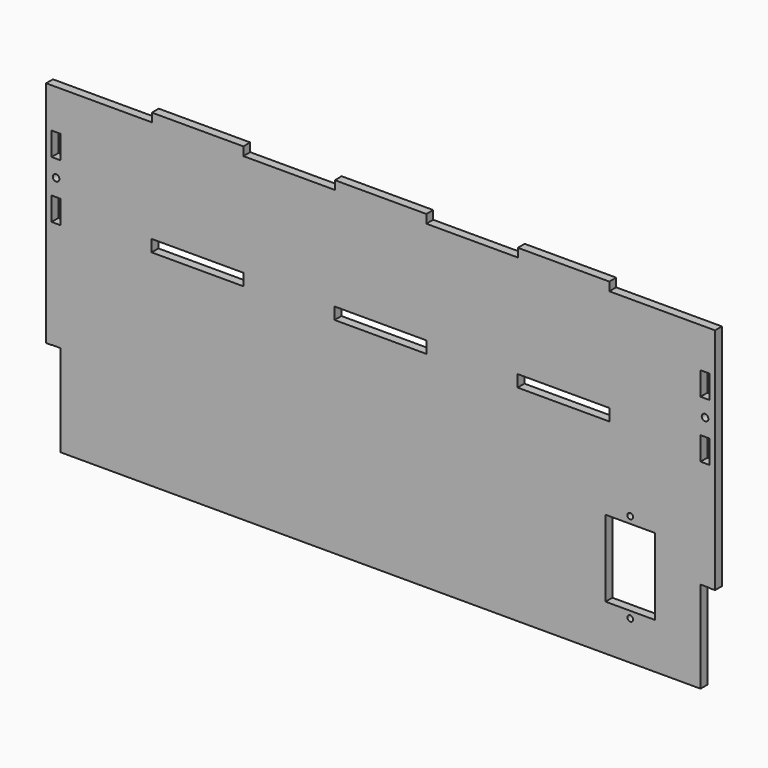
from build123d import *

# Parameters (mm, degrees)
F0_R     = 1.5875
F0_W     = 27.5
F0_H     = 42.5
F0_R_2   = 1.8415
F0_W_2   = 51.054
F0_H_2   = 6.604
F0_W_3   = 50.8
F0_H_3   = 4.7625
F1_DEPTH = 4.7625


with BuildPart() as f1:
    # F0 (on Front) → F1 (new body)
    with BuildSketch(Plane.XZ):
        Polygon((-127, 88.9), (-182.5625, 88.9), (-182.5625, 66.802), (-177.673, 66.802), (-177.673, 53.848), (-182.5625, 53.848), (-182.5625, 35.052), (-177.673, 35.052), (-177.673, 22.098), (-182.5625, 22.098), (-182.5625, -37.973), (-177.673, -37.973), (-177.673, -88.9), (177.673, -88.9), (177.673, -37.973), (182.5625, -37.973), (182.5625, 22.098), (177.673, 22.098), (177.673, 35.052), (182.5625, 35.052), (182.5625, 53.848), (177.673, 53.848), (177.673, 66.802), (182.5625, 66.802), (182.5625, 88.9), (127, 88.9), (76.2, 88.9), (25.4, 88.9), (-25.4, 88.9), (-76.2, 88.9), align=None)
        with Locations((138.65, -67.25)):
            Circle(F0_R, mode=Mode.SUBTRACT)
        with Locations((138.65, -42.25)):
            Rectangle(F0_W, F0_H, mode=Mode.SUBTRACT)
        with Locations((138.65, -17.25)):
            Circle(F0_R, mode=Mode.SUBTRACT)
        with Locations((-180.18125, 44.45)):
            Circle(F0_R_2, mode=Mode.SUBTRACT)
        with Locations((-101.6, 28.575)):
            Rectangle(F0_W_2, F0_H_2, mode=Mode.SUBTRACT)
        with Locations((0, 28.575)):
            Rectangle(F0_W_2, F0_H_2, mode=Mode.SUBTRACT)
        with Locations((101.6, 28.575)):
            Rectangle(F0_W_2, F0_H_2, mode=Mode.SUBTRACT)
        with Locations((180.18125, 44.45)):
            Circle(F0_R_2, mode=Mode.SUBTRACT)
        with Locations((-101.6, 91.28125)):
            Rectangle(F0_W_3, F0_H_3)
        with Locations((0, 91.28125)):
            Rectangle(F0_W_3, F0_H_3)
        with Locations((101.6, 91.28125)):
            Rectangle(F0_W_3, F0_H_3)
        Polygon((-182.5625, 66.802), (-182.5625, 88.9), (-185.7375, 88.9), (-185.7375, -38.1), (-182.6895, -38.1), (-182.6895, -37.973), (-182.5625, -37.973), (-182.5625, 22.098), (-182.6895, 22.098), (-182.6895, 35.052), (-182.5625, 35.052), (-182.5625, 53.848), (-182.6895, 53.848), (-182.6895, 66.802), align=None)
        Polygon((185.7375, 88.9), (182.5625, 88.9), (182.5625, 66.802), (182.6895, 66.802), (182.6895, 53.848), (182.5625, 53.848), (182.5625, 35.052), (182.6895, 35.052), (182.6895, 22.098), (182.5625, 22.098), (182.5625, -37.973), (182.6895, -37.973), (182.6895, -38.1), (185.7375, -38.1), align=None)
    extrude(amount=F1_DEPTH)


solid = f1.part
